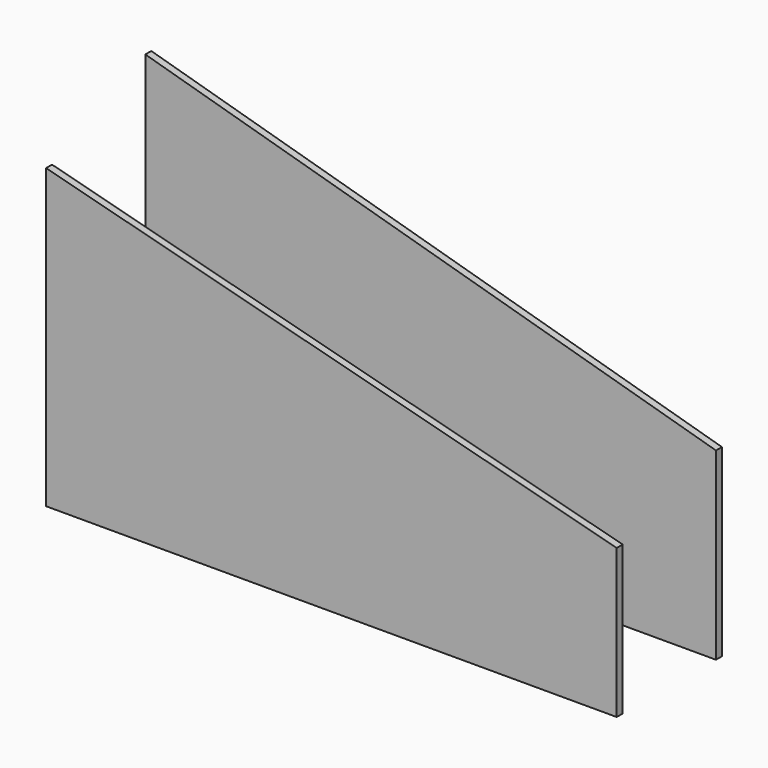
from build123d import *

# Parameters (mm, degrees)
PAD_DEPTH    = 3
PAD001_DEPTH = 3


with BuildPart() as obj1:
    # Sketch → Pad (new body)
    with BuildSketch(Plane.XZ):
        Polygon((-115, 0), (-115, 140), (115, 74.265723), (115, 0), align=None)
    extrude(amount=PAD_DEPTH)


with BuildPart() as obj2:
    # Sketch001 → Pad001 (new body)
    with BuildSketch(Plane.XZ):
        Polygon((-115, 0), (-115, 120), (115, 60), (115, 0), align=None)
    extrude(amount=PAD001_DEPTH)


with BuildPart() as obj2_1:
    # Body001 placement: moved
    add(obj2.part.moved(Location((0, -50, 0))))


solid = Compound([obj1.part, obj2_1.part])
